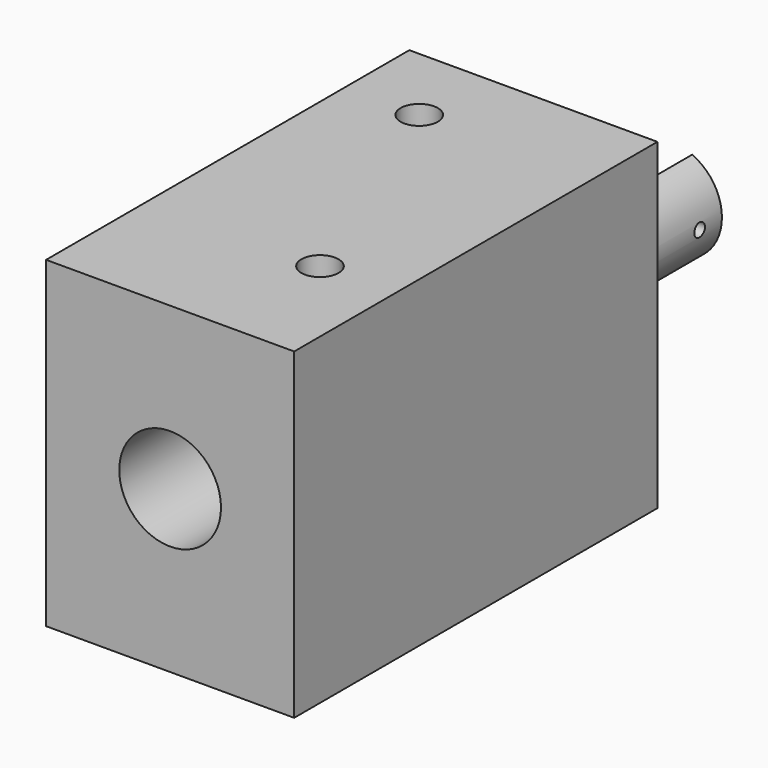
from build123d import *

# Parameters (mm, degrees)
F0_W      = 20
F0_H      = 26
F0_R      = 4.1
F1_DEPTH  = 36.6
F0_R_2    = 4
F2_DEPTH  = 14
F3_R      = 1.5
F4_DEPTH  = 5
F5_R      = 1.5
F6_DEPTH  = 5
F8_DEPTH  = 5.1
F9_R      = 0.53549
F10_DEPTH = 12.5


with BuildPart() as f1:
    # F0 (on Front) → F1 (new body)
    with BuildSketch(Plane.XZ):
        Rectangle(F0_W, F0_H)
        Circle(F0_R, mode=Mode.SUBTRACT)
    extrude(amount=F1_DEPTH)

    # F3 (on face) → F4 (cut)
    with BuildSketch(Plane.XY.offset(13)):
        with Locations((-4, -6.5)):
            Circle(F3_R)
        with Locations((4, -26.5)):
            Circle(F3_R)
    extrude(amount=-F4_DEPTH, mode=Mode.SUBTRACT)

    # F5 (on face) → F6 (cut)
    with BuildSketch(Plane(origin=(0, 0, -13), x_dir=(1, 0, 0), z_dir=(0, 0, -1))):
        with Locations((-4, 26.5)):
            Circle(F5_R)
        with Locations((4, 6.5)):
            Circle(F5_R)
    extrude(amount=-F6_DEPTH, mode=Mode.SUBTRACT)


with BuildPart() as f2:
    # F0 (on Front) → F2 (new body, symmetric)
    with BuildSketch(Plane.XZ):
        Circle(F0_R_2)
    extrude(amount=F2_DEPTH, both=True)

    # F7 (on face) → F8 (cut)
    with BuildSketch(Plane(origin=(0, 14, 0), x_dir=(-1, 0, 0), z_dir=(0, 1, 0))):
        with BuildLine():
            Line((-1.6, 5), (-1.6, 3.666061))
            ThreePointArc((-1.6, 3.666061), (0, 4), (1.6, 3.666061))
            Line((1.6, 3.666061), (1.6, 5))
            Line((1.6, 5), (-1.6, 5))
        make_face()
        with BuildLine():
            Line((-1.6, 3.666061), (-1.6, -3.666061))
            ThreePointArc((-1.6, -3.666061), (0, -4), (1.6, -3.666061))
            Line((1.6, -3.666061), (1.6, 3.666061))
            ThreePointArc((1.6, 3.666061), (0, 4), (-1.6, 3.666061))
        make_face()
        with BuildLine():
            Line((-1.6, -3.666061), (-1.6, -5))
            Line((-1.6, -5), (1.6, -5))
            Line((1.6, -5), (1.6, -3.666061))
            ThreePointArc((1.6, -3.666061), (0, -4), (-1.6, -3.666061))
        make_face()
    extrude(amount=-F8_DEPTH, mode=Mode.SUBTRACT)

    # F9 (on face) → F10 (cut, symmetric)
    with BuildSketch(Plane(origin=(1.6, 0, 0), x_dir=(0, -1, 0), z_dir=(-1, 0, 0))):
        with Locations((-11.76451, 0)):
            Circle(F9_R)
    extrude(amount=F10_DEPTH, both=True, mode=Mode.SUBTRACT)


solid = Compound([f1.part, f2.part])
